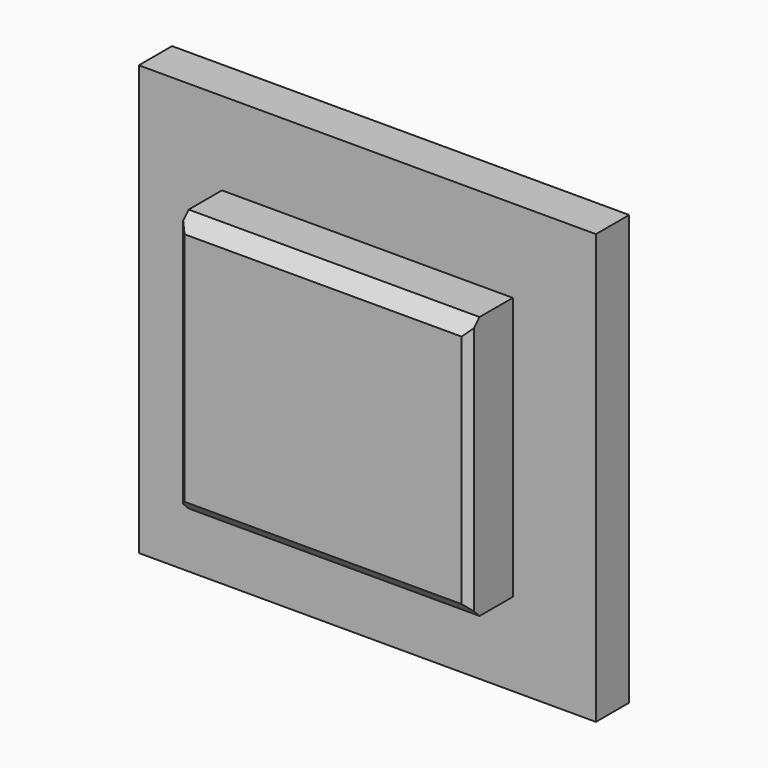
from build123d import *

# Parameters (mm, degrees)
F0_W     = 210
F0_H     = 190
F1_DEPTH = 40
F2_W     = 330
F2_H     = 310
F3_DEPTH = 30
F4_SIZE  = 10
F5_SIZE  = 5


with BuildPart() as f1:
    # F0 (on Front) → F1 (new body)
    with BuildSketch(Plane.XZ):
        with Locations((-2.170864, 0)):
            Rectangle(F0_W, F0_H)
    extrude(amount=F1_DEPTH)

    # F2 (on face) → F3 (join)
    with BuildSketch(Plane(origin=(0, 0, 0), x_dir=(-1, 0, 0), z_dir=(0, 1, 0))):
        with Locations((2.170864, 0)):
            Rectangle(F2_W, F2_H)
    extrude(amount=F3_DEPTH)

    # F4
    f4_edges = [f1.edges().sort_by_distance(p)[0] for p in [
        (-2.170864, -40, 95),
        (-2.170864, -40, -95),
    ]]
    chamfer(f4_edges, length=F4_SIZE)

    # F5
    f5_edges = [f1.edges().sort_by_distance(p)[0] for p in [
        (-107.170864, -40, 0),
        (102.829136, -40, 0),
    ]]
    chamfer(f5_edges, length=F5_SIZE)


solid = f1.part
